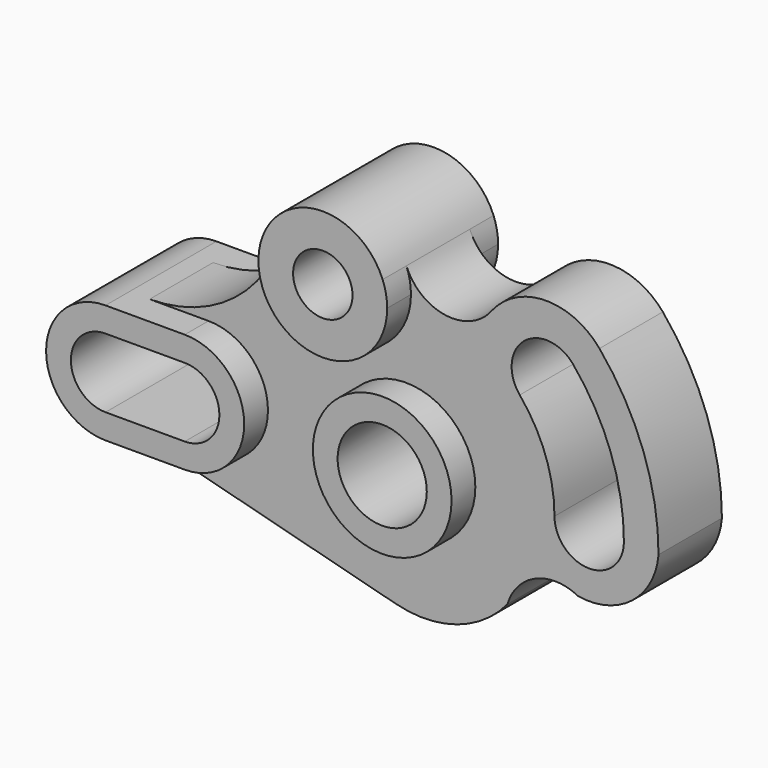
from build123d import *

# Parameters (mm, degrees)
F0_R     = 22.225
F1_DEPTH = 12.7
F0_R_2   = 9.525
F0_R_3   = 14.2875
F2_DEPTH = 22.225


with BuildPart() as f1:
    # F0 (on Front) → F1 (new body, symmetric)
    with BuildSketch(Plane.XZ):
        with BuildLine():
            ThreePointArc((-39.064243, 52.658537), (-54.841462, 28.445004), (-82.171843, 19.05))
            Line((-82.171843, 19.05), (-63.2968, 19.05))
            ThreePointArc((-63.2968, 19.05), (-44.2468, 0), (-63.2968, -19.05))
            Line((-63.2968, -19.05), (-88.6968, -19.05))
            Line((-88.6968, -19.05), (-3.164031, -41.261841))
            ThreePointArc((-3.164031, -41.261841), (16.376083, -40.683694), (32.544555, -29.695938))
            ThreePointArc((32.544555, -29.695938), (41.583612, -19.519195), (55.183261, -20.085065))
            ThreePointArc((55.183261, -20.085065), (72.465036, -15.685246), (80.9498, 0))
            ThreePointArc((80.9498, 0), (76.06793, 27.686462), (62.011144, 52.033528))
            ThreePointArc((62.011144, 52.033528), (44.80973, 59.971876), (27.736253, 51.761978))
            ThreePointArc((27.736253, 51.761978), (12.908055, 45.3375), (0.133292, 55.234711))
            ThreePointArc((0.133292, 55.234711), (1.220688, 51.498707), (1.5875, 47.625))
            ThreePointArc((1.5875, 47.625), (-21.585988, 27.143907), (-39.064243, 52.658537))
        make_face()
        Circle(F0_R, mode=Mode.SUBTRACT)
        with BuildLine():
            ThreePointArc((69.85, 0), (58.7248, -11.1252), (47.5996, 0))
            ThreePointArc((47.5996, 0), (44.728993, 16.280022), (36.463409, 30.596433))
            ThreePointArc((36.463409, 30.596433), (37.834666, 46.269971), (53.508204, 44.898715))
            ThreePointArc((53.508204, 44.898715), (65.63753, 23.890107), (69.85, 0))
        make_face(mode=Mode.SUBTRACT)
    extrude(amount=F1_DEPTH, both=True)

    # F0 (on Front) → F2 (join, symmetric)
    with BuildSketch(Plane.XZ):
        with BuildLine():
            ThreePointArc((0.133292, 55.234711), (-20.403436, 68.218072), (-39.064243, 52.658537))
            ThreePointArc((-39.064243, 52.658537), (-21.585988, 27.143907), (1.5875, 47.625))
            ThreePointArc((1.5875, 47.625), (1.220688, 51.498707), (0.133292, 55.234711))
        make_face()
        with Locations((-19.05, 47.625)):
            Circle(F0_R_2, mode=Mode.SUBTRACT)
        with BuildLine():
            Line((-82.171843, 19.05), (-88.6968, 19.05))
            ThreePointArc((-88.6968, 19.05), (-107.7468, 0), (-88.6968, -19.05))
            Line((-88.6968, -19.05), (-63.2968, -19.05))
            ThreePointArc((-63.2968, -19.05), (-44.2468, 0), (-63.2968, 19.05))
            Line((-63.2968, 19.05), (-82.171843, 19.05))
        make_face()
        with BuildLine():
            ThreePointArc((-88.6968, -11.0998), (-99.7966, 0), (-88.6968, 11.0998))
            Line((-88.6968, 11.0998), (-63.2968, 11.0998))
            ThreePointArc((-63.2968, 11.0998), (-52.197, 0), (-63.2968, -11.0998))
            Line((-63.2968, -11.0998), (-88.6968, -11.0998))
        make_face(mode=Mode.SUBTRACT)
        Circle(F0_R)
        Circle(F0_R_3, mode=Mode.SUBTRACT)
    extrude(amount=F2_DEPTH, both=True)


solid = f1.part
